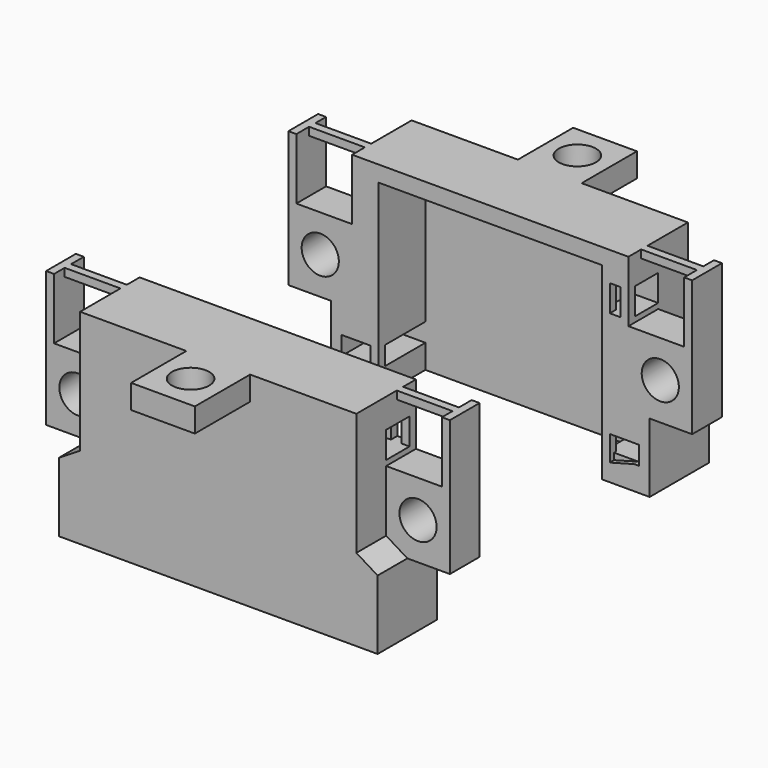
from build123d import *

# Parameters (mm, degrees)
F0_W      = 60
F0_H      = 14
F1_DEPTH  = 36
F3_W      = 42
F3_H      = 11
F4_DEPTH  = 25
F5_W      = 42
F5_H      = 4.5
F6_DEPTH  = 11
F7_W      = 8
F7_H      = 14
F8_DEPTH  = 14
F9_R      = 3.5
F10_DEPTH = 14
F11_W     = 12
F11_H     = 14
F12_DEPTH = 7
F13_W     = 4
F13_H     = 9
F14_DEPTH = 14
F15_W     = 7
F15_H     = 5
F16_DEPTH = 5
F18_DEPTH = 1
F19_W     = 12
F19_H     = 5
F20_DEPTH = 13
F21_R     = 3.5
F22_DEPTH = 5
F26_DEPTH = 2.5
F27_W     = 42
F27_H     = 2.5
F28_DEPTH = 11
F29_DEPTH = 3
F30_W     = 1.5
F30_H     = 7
F31_DEPTH = 11.5
F32_W     = 1.5
F32_H     = 1.5
F33_DEPTH = 5
F34_W     = 1.5
F34_H     = 1.5
F35_DEPTH = 6
F37_DEPTH = 7
F38_W     = 1.5
F38_H     = 1.5
F39_DEPTH = 11
F40_W     = 1.5
F40_H     = 1.5
F41_DEPTH = 11


with BuildPart() as f1:
    # F0 (on Top) → F1 (new body)
    with BuildSketch(Plane.XY):
        Rectangle(F0_W, F0_H)
    extrude(amount=F1_DEPTH)

    # F3 (on offset) → F4 (cut)
    with BuildSketch(Plane.XY.offset(33)):
        with Locations((0, 1.5)):
            Rectangle(F3_W, F3_H)
    extrude(amount=-F4_DEPTH, mode=Mode.SUBTRACT)

    # F5 (on face) → F6 (cut)
    with BuildSketch(Plane(origin=(0, 7, 0), x_dir=(-1, 0, 0), z_dir=(0, 1, 0))):
        Polygon((21, 4.5), (28, 4.5), (28, 8), (21, 8), (-21, 8), (-28, 8), (-28, 4.5), (-21, 4.5), align=None)
        with Locations((0, 2.25)):
            Rectangle(F5_W, F5_H)
    extrude(amount=-F6_DEPTH, mode=Mode.SUBTRACT)

    # F7 (on face) → F8 (join)
    with BuildSketch(Plane(origin=(0, 7, 0), x_dir=(-1, 0, 0), z_dir=(0, 1, 0))):
        with Locations((34, 20)):
            Rectangle(F7_W, F7_H)
        with Locations((-34, 20)):
            Rectangle(F7_W, F7_H)
    extrude(amount=-F8_DEPTH)

    # F9 (on face) → F10 (cut)
    with BuildSketch(Plane(origin=(0, 7, 0), x_dir=(-1, 0, 0), z_dir=(0, 1, 0))):
        with Locations((32, 20)):
            Circle(F9_R)
        with Locations((-32, 20)):
            Circle(F9_R)
    extrude(amount=-F10_DEPTH, mode=Mode.SUBTRACT)

    # F11 (on face) → F12 (cut)
    with BuildSketch(Plane.XZ.offset(7)):
        with Locations((32, 20)):
            Rectangle(F11_W, F11_H)
        with Locations((-32, 20)):
            Rectangle(F11_W, F11_H)
    extrude(amount=-F12_DEPTH, mode=Mode.SUBTRACT)

    # F13 (on face) → F14 (cut)
    with BuildSketch(Plane.XZ.offset(7)):
        with Locations((28, 31.5)):
            Rectangle(F13_W, F13_H)
        with Locations((-28, 31.5)):
            Rectangle(F13_W, F13_H)
    extrude(amount=-F14_DEPTH, mode=Mode.SUBTRACT)

    # F15 (on face) → F16 (cut)
    with BuildSketch(Plane.YZ.offset(26)):
        with Locations((3.5, 30.5)):
            Rectangle(F15_W, F15_H)
    extrude(amount=-F16_DEPTH, mode=Mode.SUBTRACT)

    # F17 (on face) → F18 (cut)
    with BuildSketch(Plane(origin=(0, 7, 0), x_dir=(-1, 0, 0), z_dir=(0, 1, 0))):
        Polygon((-27.0907673985, 4.5), (-21, 2.8613428585), (-21, 4.5), align=None)
        Polygon((21, 4.5), (21, 2.8613428585), (27.0907673985, 4.5), align=None)
    extrude(amount=-F18_DEPTH, mode=Mode.SUBTRACT)

    # F19 (on face) → F20 (join)
    with BuildSketch(Plane.XZ.offset(7)):
        with Locations((0, 33.5)):
            Rectangle(F19_W, F19_H)
    extrude(amount=F20_DEPTH)

    # F21 (on face) → F22 (cut)
    with BuildSketch(Plane(origin=(0, 0, 31), x_dir=(1, 0, 0), z_dir=(0, 0, -1))):
        with Locations((0, 13.5)):
            Circle(F21_R)
    extrude(amount=-F22_DEPTH, mode=Mode.SUBTRACT)

    # F26 (add): a face of the model
    f26_faces = [f1.faces().sort_by_distance(p)[0] for p in [
        (0, -1.8763217631, 36),
    ]]
    extrude(f26_faces, amount=F26_DEPTH)

    # F27 (on face) → F28 (cut)
    with BuildSketch(Plane(origin=(0, 7, 0), x_dir=(-1, 0, 0), z_dir=(0, 1, 0))):
        with Locations((0, 34.25)):
            Rectangle(F27_W, F27_H)
    extrude(amount=-F28_DEPTH, mode=Mode.SUBTRACT)

    # F29 (cut): a face of the model
    f29_faces = [f1.faces().sort_by_distance(p)[0] for p in [
        (-5.8230819399, -13.5, 31),
    ]]
    extrude(f29_faces, amount=-F29_DEPTH, mode=Mode.SUBTRACT)

    # F30 (on face) → F31 (join)
    with BuildSketch(Plane.XY.offset(27)):
        with Locations((37.25, 3.5)):
            Rectangle(F30_W, F30_H)
        with Locations((-37.25, 3.5)):
            Rectangle(F30_W, F30_H)
    extrude(amount=F31_DEPTH)

    # F32 (on face) → F33 (join)
    with BuildSketch(Plane.XY.offset(28)):
        with Locations((25.25, 6.25)):
            Rectangle(F32_W, F32_H)
        with Locations((21.75, 6.25)):
            Rectangle(F32_W, F32_H)
    extrude(amount=F33_DEPTH)

    # F34 (on face) → F35 (join)
    with BuildSketch(Plane(origin=(0, 0, 8), x_dir=(1, 0, 0), z_dir=(0, 0, -1))):
        with Locations((21.75, -6.25)):
            Rectangle(F34_W, F34_H)
        with Locations((-21.75, -6.25)):
            Rectangle(F34_W, F34_H)
    extrude(amount=F35_DEPTH)

    # F36 (on face) → F37 (join)
    with BuildSketch(Plane.XZ.offset(7)):
        Polygon((-26, 13), (-26, 15.456433408), (-30, 13), align=None)
        Polygon((26, 15.456433408), (26, 13), (30, 13), align=None)
    extrude(amount=-F37_DEPTH)

    # F38 (on face) → F39 (join)
    with BuildSketch(Plane.YZ.offset(26)):
        with Locations((3.25, 37.75)):
            Rectangle(F38_W, F38_H)
    extrude(amount=F39_DEPTH)

    # F40 (on face) → F41 (join)
    with BuildSketch(Plane(origin=(-26, 0, 0), x_dir=(0, -1, 0), z_dir=(-1, 0, 0))):
        with Locations((-3.25, 37.75)):
            Rectangle(F40_W, F40_H)
    extrude(amount=F41_DEPTH)


with BuildPart() as f42_1:
    # F42: instance of F1
    add(f1.part.mirror(Plane(origin=(27.9952492859, 32, 16.1474245819), x_dir=(-1, 0, 0), z_dir=(0, 1, 0))))


solid = Compound([f1.part, f42_1.part])
